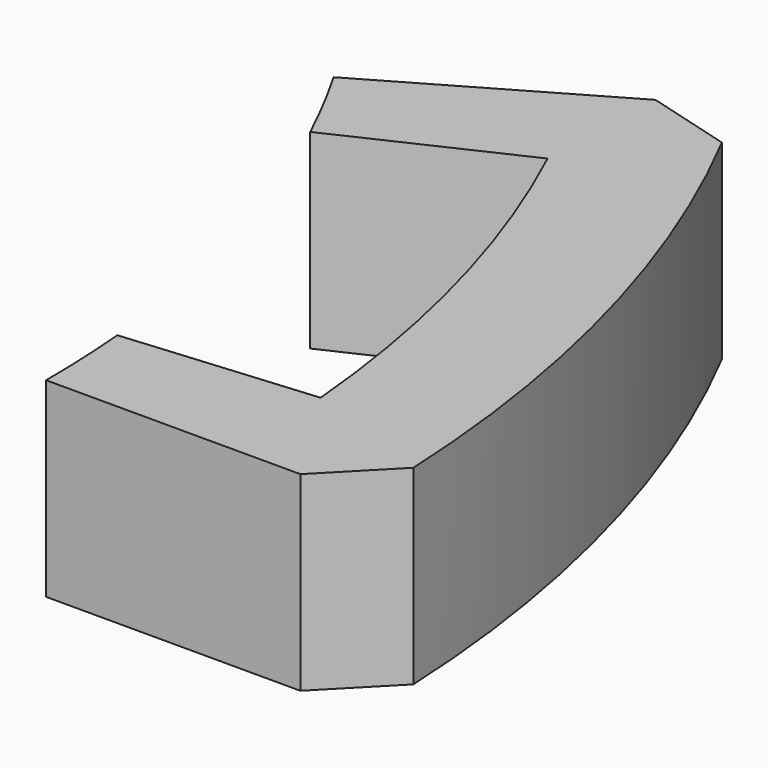
from build123d import *

# Parameters (mm, degrees)
CYLINDER001_W            = 17
CYLINDER001_H            = 3
CYLINDER001_ANGLE        = 30
CYLINDER_W               = 20
CYLINDER_H               = 3
CYLINDER_ANGLE           = 20
CYLINDER_PLACEMENT_ANGLE = 5
CYLINDER002_W            = 22
CYLINDER002_H            = 3
CYLINDER002_ANGLE        = 30
CHAMFER007003_SIZE       = 1


with BuildPart() as cylinder001:
    # Cylinder001 → Cylinder001 (revolve)
    with BuildSketch(Plane.XZ):
        with Locations((8.5, 1.5)):
            Rectangle(CYLINDER001_W, CYLINDER001_H)
    revolve(axis=Axis((0, 0, 0), (0, 0, 1)), revolution_arc=CYLINDER001_ANGLE)


with BuildPart() as cylinder:
    # Cylinder → Cylinder (revolve)
    with BuildSketch(Plane.XZ):
        with Locations((10, 1.5)):
            Rectangle(CYLINDER_W, CYLINDER_H)
    revolve(axis=Axis((0, 0, 0), (0, 0, 1)), revolution_arc=CYLINDER_ANGLE)


with BuildPart() as cylinder_1:
    # Cylinder placement: moved
    add(cylinder.part.rotate(Axis((0, 0, 0), (0, 0, 1)), CYLINDER_PLACEMENT_ANGLE))


with BuildPart() as chamfer007003:
    # Cylinder002 → Cylinder002 (revolve)
    with BuildSketch(Plane.XZ):
        with Locations((11, 1.5)):
            Rectangle(CYLINDER002_W, CYLINDER002_H)
    revolve(axis=Axis((0, 0, 0), (0, 0, 1)), revolution_arc=CYLINDER002_ANGLE)

    # Cut001: cut Cylinder
    add(cylinder_1.part, mode=Mode.SUBTRACT)

    # Cut002: cut Cylinder001
    add(cylinder001.part, mode=Mode.SUBTRACT)

    # Chamfer007003
    chamfer007003_edges = [chamfer007003.edges().sort_by_distance(p)[0] for p in [
        (19.052559, 11, 1.5),
        (22, 0, 1.5),
    ]]
    chamfer(chamfer007003_edges, length=CHAMFER007003_SIZE)


solid = chamfer007003.part
